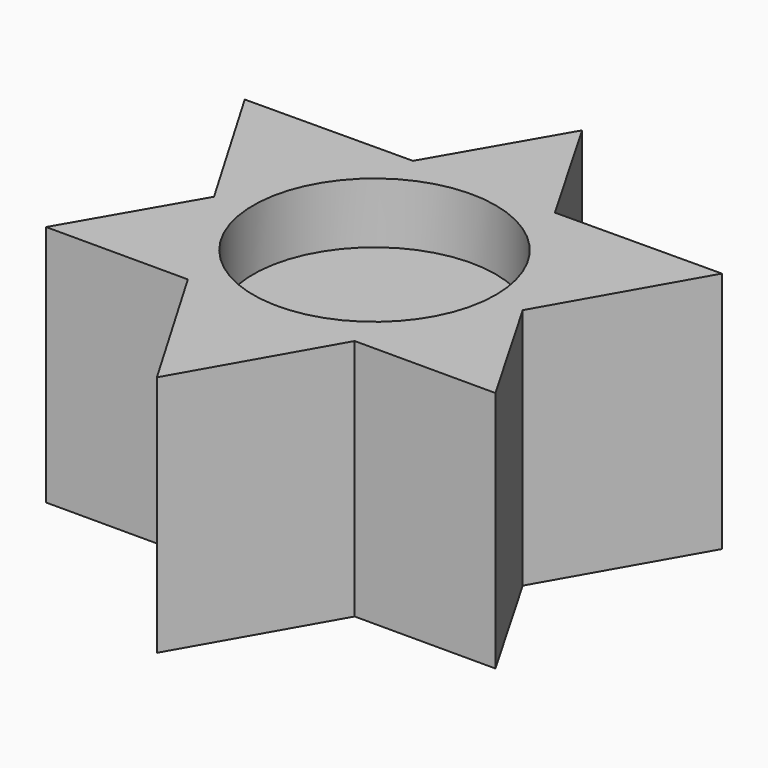
from build123d import *

# Parameters (mm, degrees)
F1_DEPTH = 15
F2_R     = 10
F3_DEPTH = 5


with BuildPart() as f1:
    # F0 (on Top) → F1 (new body)
    with BuildSketch(Plane.XY):
        Polygon((-12.7223648903, -0.643178855), (-5.8452739672, 11.2682920321), (-19.6474669216, 11.1839482352), align=None)
        Polygon((0.0316754732, 11.3042054723), (-5.8452739672, 11.2682920321), (-12.7223648903, -0.643178855), (-6.8359901735, -10.6963017637), (0.1007524936, -10.6963017637), align=None)
        Polygon((0.0316754732, 11.3042054723), (0, 21.3926035274), (-5.8452739672, 11.2682920321), align=None)
        Polygon((5.8041732175, 11.3394806187), (0, 21.3926035274), (0.0316754732, 11.3042054723), align=None)
        Polygon((12.6812641407, -0.5719902684), (5.8041732175, 11.3394806187), (0.0316754732, 11.3042054723), (0.1007524936, -10.6963017637), (6.9181916728, -10.6963017637), align=None)
        Polygon((19.509316747, 11.4232313565), (5.8041732175, 11.3394806187), (12.6812641407, -0.5719902684), align=None)
        Polygon((18.5265381078, -10.6963017637), (12.6812641407, -0.5719902684), (6.9181916728, -10.6963017637), align=None)
        Polygon((0.1381501745, -22.6071795917), (0.1007524936, -10.6963017637), (-6.8359901735, -10.6963017637), align=None)
        Polygon((6.9181916728, -10.6963017637), (0.1007524936, -10.6963017637), (0.1381501745, -22.6071795917), align=None)
        Polygon((-6.8359901735, -10.6963017637), (-12.7223648903, -0.643178855), (-18.5265381078, -10.6963017637), align=None)
    extrude(amount=F1_DEPTH)

    # F2 (on face) → F3 (join)
    with BuildSketch(Plane.XY.offset(15)):
        Polygon((-5.8452739672, 11.2682920321), (-19.6474669216, 11.1839482352), (-12.7223648903, -0.643178855), (-18.5265381078, -10.6963017637), (-6.8359901735, -10.6963017637), (0.1381501745, -22.6071795917), (6.9181916728, -10.6963017637), (18.5265381078, -10.6963017637), (12.6812641407, -0.5719902684), (19.509316747, 11.4232313565), (5.8041732175, 11.3394806187), (0, 21.3926035274), align=None)
        Circle(F2_R, mode=Mode.SUBTRACT)
    extrude(amount=F3_DEPTH)


solid = f1.part
